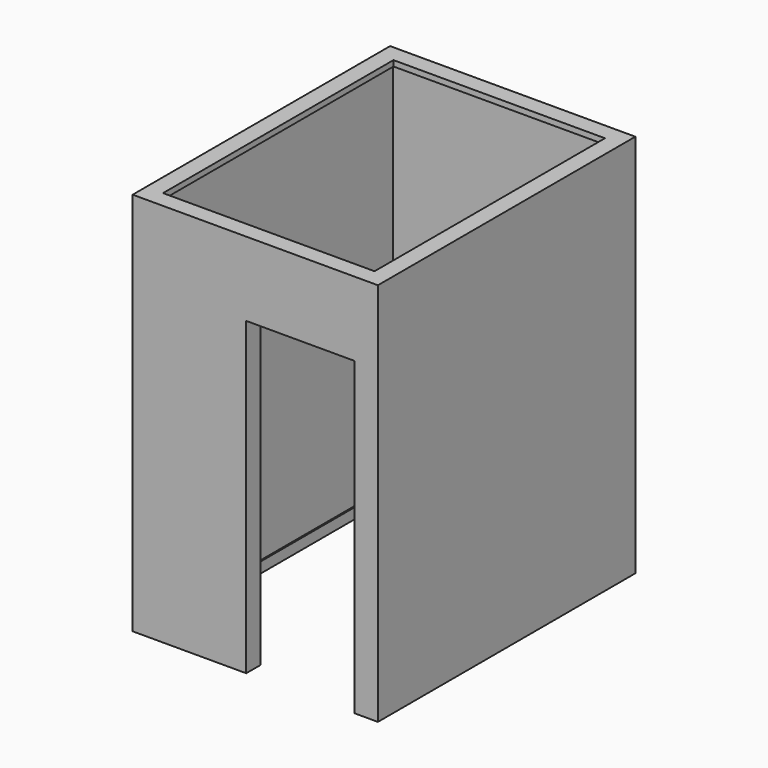
from build123d import *

# Parameters (mm, degrees)
F0_W      = 1570
F0_H      = 2060
F0_W_2    = 1370
F0_H_2    = 1860
F1_DEPTH  = 2425
F2_W      = 793
F2_H      = 2036
F3_DEPTH  = 14
F4_W      = 693
F4_H      = 1986
F5_DEPTH  = 114
F6_W      = 800
F6_H      = 878
F7_DEPTH  = 14
F8_W      = 700
F8_H      = 778
F9_DEPTH  = 114
F11_DEPTH = 68
F12_W     = 1570
F12_H     = 2060
F12_W_2   = 1354
F12_H_2   = 1844
F13_DEPTH = 36


with BuildPart() as f1:
    # F0 (on Top) → F1 (new body)
    with BuildSketch(Plane.XY):
        with Locations((-685, 930)):
            Rectangle(F0_W, F0_H)
        with Locations((-685, 930)):
            Rectangle(F0_W_2, F0_H_2, mode=Mode.SUBTRACT)
    extrude(amount=F1_DEPTH)

    # F2 (on face) → F3 (join)
    with BuildSketch(Plane(origin=(0, 0, 0), x_dir=(-1, 0, 0), z_dir=(0, 1, 0))):
        with Locations((396.5, 1018)):
            Rectangle(F2_W, F2_H)
    extrude(amount=F3_DEPTH)

    # F4 (on face) → F5 (cut, through all)
    with BuildSketch(Plane.XZ.offset(100)):
        with Locations((-396.5, 993)):
            Rectangle(F4_W, F4_H)
    extrude(amount=-F5_DEPTH, mode=Mode.SUBTRACT)

    # F6 (on face) → F7 (join)
    with BuildSketch(Plane.XZ.offset(-1860)):
        with Locations((-400, 1350)):
            Rectangle(F6_W, F6_H)
    extrude(amount=F7_DEPTH)

    # F8 (on face) → F9 (cut, through all)
    with BuildSketch(Plane(origin=(0, 1960, 0), x_dir=(-1, 0, 0), z_dir=(0, 1, 0))):
        with Locations((400, 1350)):
            Rectangle(F8_W, F8_H)
    extrude(amount=-F9_DEPTH, mode=Mode.SUBTRACT)

    # F10 (on face) → F11 (join)
    with BuildSketch(Plane(origin=(0, 0, 0), x_dir=(1, 0, 0), z_dir=(0, 0, -1))):
        Polygon((-1361, -1851), (-1361, -9), (-743, -9), (-743, 0), (-1370, 0), (-1370, -1860), (0, -1860), (0, -14), (-9, -14), (-9, -1851), align=None)
    extrude(amount=-F11_DEPTH)

    # F12 (on face) → F13 (join)
    with BuildSketch(Plane.XY.offset(2425)):
        with Locations((-685, 930)):
            Rectangle(F12_W, F12_H)
        with Locations((-685, 930)):
            Rectangle(F12_W_2, F12_H_2, mode=Mode.SUBTRACT)
    extrude(amount=F13_DEPTH)


solid = f1.part
